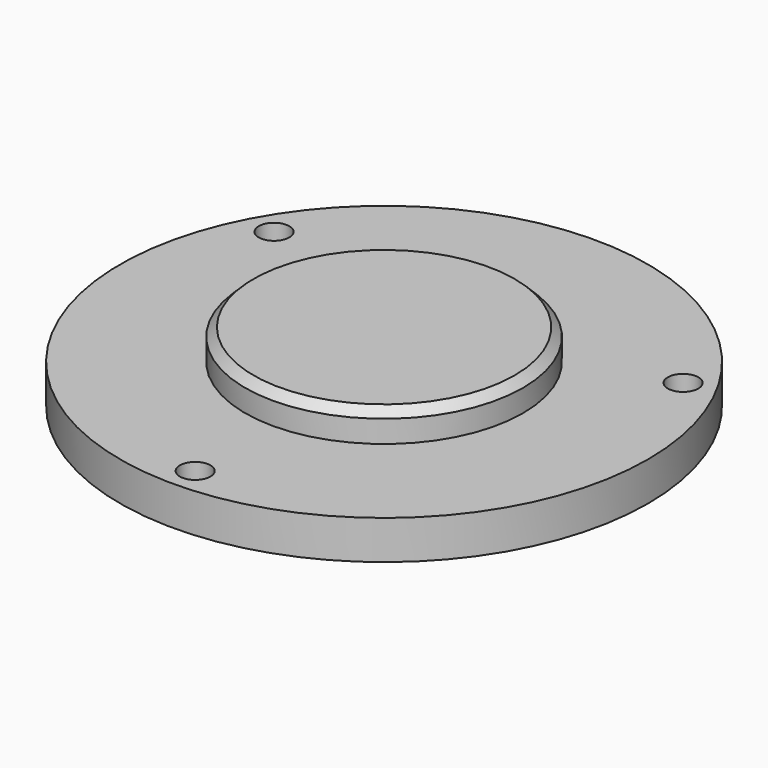
from build123d import *

# Parameters (mm, degrees)
F0_R     = 95
F1_DEPTH = 14
F2_R     = 50
F3_DEPTH = 11
F4_SIZE  = 3
F5_R     = 5.5
F6_DEPTH = 7
F7_R     = 3.25
F8_DEPTH = 25


with BuildPart() as f1:
    # F0 (on Top) → F1 (new body)
    with BuildSketch(Plane.XY):
        Circle(F0_R)
    extrude(amount=F1_DEPTH)

    # F2 (on face) → F3 (join)
    with BuildSketch(Plane.XY.offset(14)):
        Circle(F2_R)
    extrude(amount=F3_DEPTH)

    # F4
    f4_edges = [f1.edges().sort_by_distance(p)[0] for p in [
        (-50, 0, 25),
    ]]
    chamfer(f4_edges, length=F4_SIZE)

    # F5 (on face) → F6 (cut)
    with BuildSketch(Plane.XY.offset(14)):
        with Locations((0, -85)):
            Circle(F5_R)
        with Locations((-73.612159, 42.5)):
            Circle(F5_R)
        with Locations((73.612159, 42.5)):
            Circle(F5_R)
    extrude(amount=-F6_DEPTH, mode=Mode.SUBTRACT)

    # F7 (on face) → F8 (cut)
    with BuildSketch(Plane.XY.offset(7)):
        with Locations((0, -85)):
            Circle(F7_R)
        with Locations((73.612159, 42.5)):
            Circle(F7_R)
        with Locations((-73.612159, 42.5)):
            Circle(F7_R)
    extrude(amount=-F8_DEPTH, mode=Mode.SUBTRACT)


solid = f1.part
